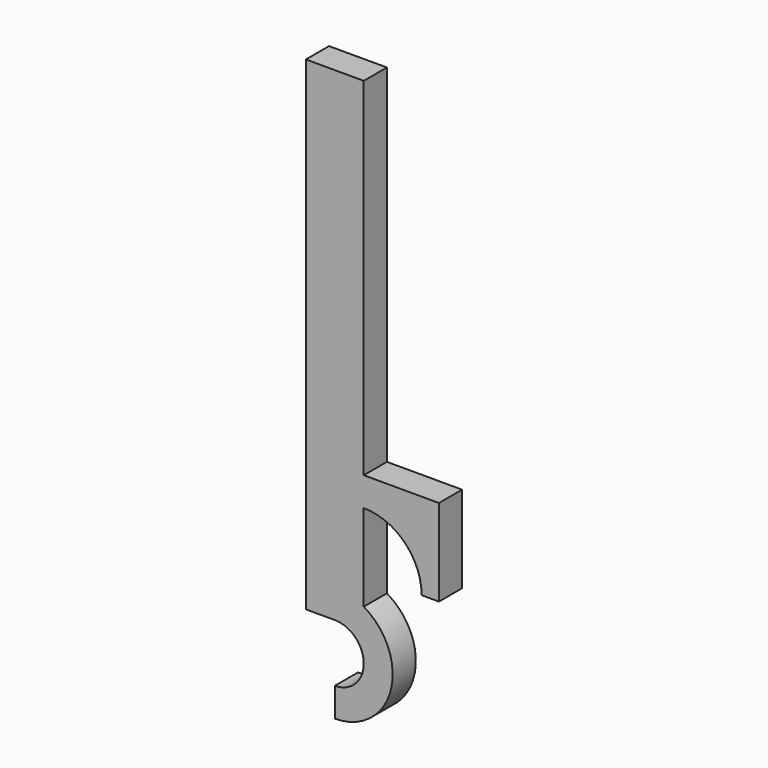
from build123d import *

# Parameters (mm, degrees)
F1_DEPTH = 5


with BuildPart() as f1:
    # F0 (on Front) → F1 (new body)
    with BuildSketch(Plane.XZ):
        with BuildLine():
            Line((5, -15.669873), (5, 44.330127))
            Line((5, 44.330127), (-5, 44.330127))
            Line((-5, 44.330127), (-5, -35.669873))
            Line((-5, -35.669873), (-5, -39.330127))
            Line((-5, -39.330127), (0, -39.330127))
            Line((0, -39.330127), (0, -34.330127))
            ThreePointArc((0, -34.330127), (2.58819, -34.670869), (5, -35.669873))
            Line((5, -35.669873), (5, -30.669873))
            Line((5, -30.669873), (5, -20.669873))
            Line((5, -20.669873), (5, -15.669873))
        make_face()
        with BuildLine():
            Line((18, -15.669873), (5, -15.669873))
            Line((5, -15.669873), (5, -20.669873))
            ThreePointArc((5, -20.669873), (12.071068, -23.598805), (15, -30.669873))
            Line((15, -30.669873), (18, -30.669873))
            Line((18, -30.669873), (18, -15.669873))
        make_face()
        with BuildLine():
            Line((0, -34.330127), (0, -39.330127))
            ThreePointArc((0, -39.330127), (5, -44.330127), (0, -49.330127))
            Line((0, -49.330127), (0, -54.330127))
            ThreePointArc((0, -54.330127), (9.659258, -46.918317), (5, -35.669873))
            ThreePointArc((5, -35.669873), (2.58819, -34.670869), (0, -34.330127))
        make_face()
    extrude(amount=F1_DEPTH)


solid = f1.part
